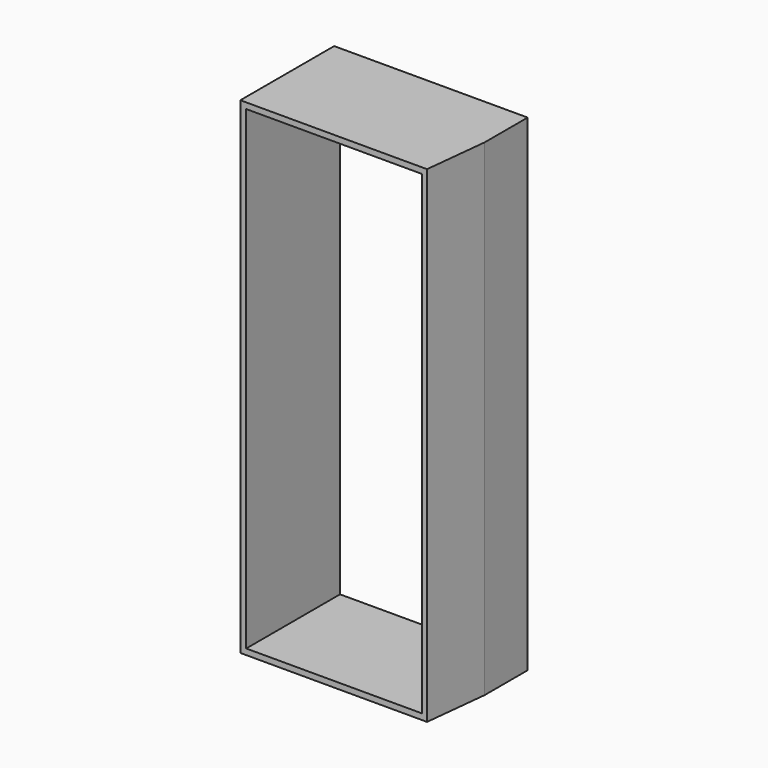
from build123d import *

# Parameters (mm, degrees)
F0_W     = 16.5
F0_H     = 41.5
F1_DEPTH = 5
F2_W     = 15
F2_H     = 40.5
F3_DEPTH = 12.5
F5_DEPTH = 22.8


with BuildPart() as f1:
    # F0 (on Front) → F1 (new body, symmetric)
    with BuildSketch(Plane.XZ):
        Rectangle(F0_W, F0_H)
    extrude(amount=F1_DEPTH, both=True)

    # F2 (on Front) → F3 (cut, symmetric)
    with BuildSketch(Plane.XZ):
        with Locations((-0.25, 0)):
            Rectangle(F2_W, F2_H)
    extrude(amount=F3_DEPTH, both=True, mode=Mode.SUBTRACT)

    # F4 (on Top) → F5 (cut, symmetric)
    with BuildSketch(Plane.XY):
        Polygon((10.645687, 0.322955), (8.267023, 0.577699), (7.596283, -5.685302), (10.645687, -6.162507), align=None)
    extrude(amount=F5_DEPTH, both=True, mode=Mode.SUBTRACT)


solid = f1.part
